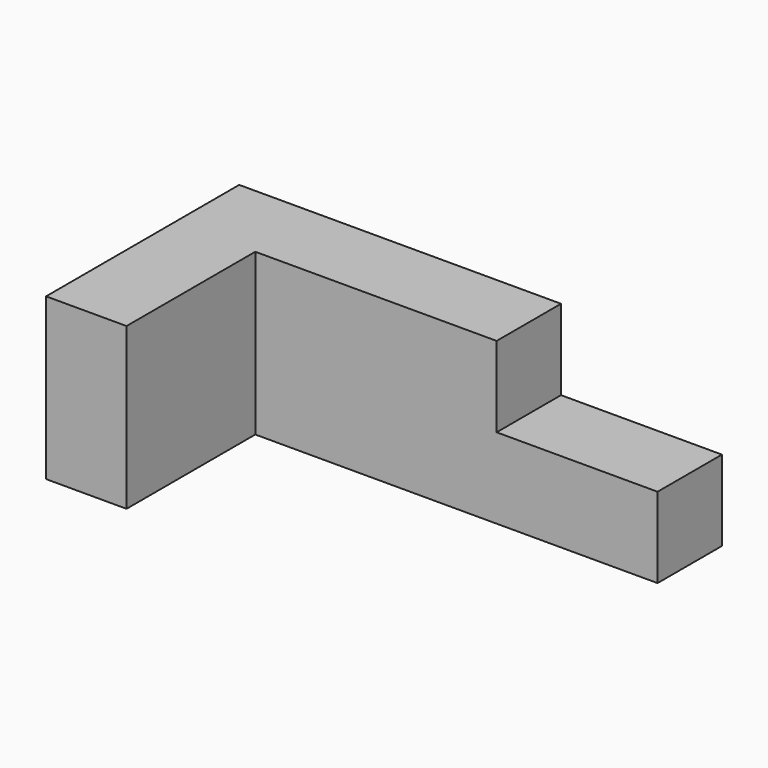
from build123d import *

# Parameters (mm, degrees)
F1_DEPTH = 50.8
F2_W     = 50.8
F2_H     = 25.4
F3_DEPTH = 25.4


with BuildPart() as f1:
    # F0 (on Top) → F1 (new body)
    with BuildSketch(Plane.XY):
        Polygon((0, 76.2), (0, 0), (25.4, 0), (25.4, 50.8), (152.4, 50.8), (152.4, 76.2), align=None)
    extrude(amount=F1_DEPTH)

    # F2 (on face) → F3 (cut)
    with BuildSketch(Plane.XZ.offset(-50.8)):
        with Locations((127, 38.1)):
            Rectangle(F2_W, F2_H)
    extrude(amount=-F3_DEPTH, mode=Mode.SUBTRACT)


solid = f1.part
